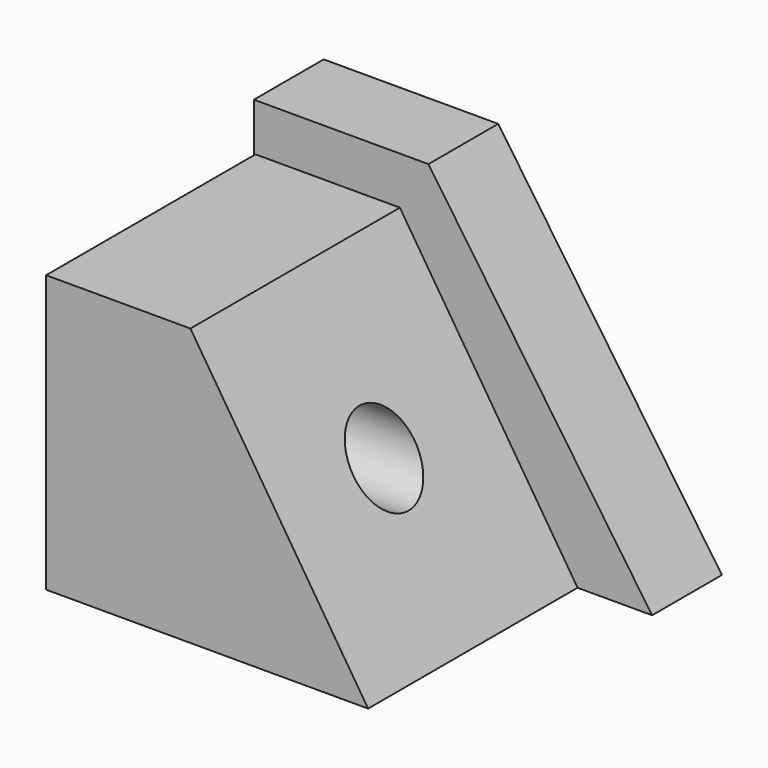
from build123d import *

# Parameters (mm, degrees)
F1_DEPTH = 50.8
F3_DEPTH = 12.7
F4_R     = 5.569694
F5_DEPTH = 50.8


with BuildPart() as f1:
    # F0 (on Front) → F1 (new body)
    with BuildSketch(Plane.XZ):
        Polygon((-46.874546, 0), (0, 0), (-25.861818, 40.293638), (-46.874546, 40.293638), align=None)
    extrude(amount=F1_DEPTH)

    # F2 (on Front) → F3 (join)
    with BuildSketch(Plane.XZ):
        Polygon((-47.105454, 47.220912), (-47.105454, 0), (10.852728, 0), (-21.705456, 47.220912), align=None)
    extrude(amount=F3_DEPTH)

    # F4 (on face) → F5 (cut)
    with BuildSketch(Plane(origin=(-46.874546, 0, 0), x_dir=(0, -1, 0), z_dir=(-1, 0, 0))):
        with Locations((31.75, 20.146819)):
            Circle(F4_R)
    extrude(amount=-F5_DEPTH, mode=Mode.SUBTRACT)


solid = f1.part
